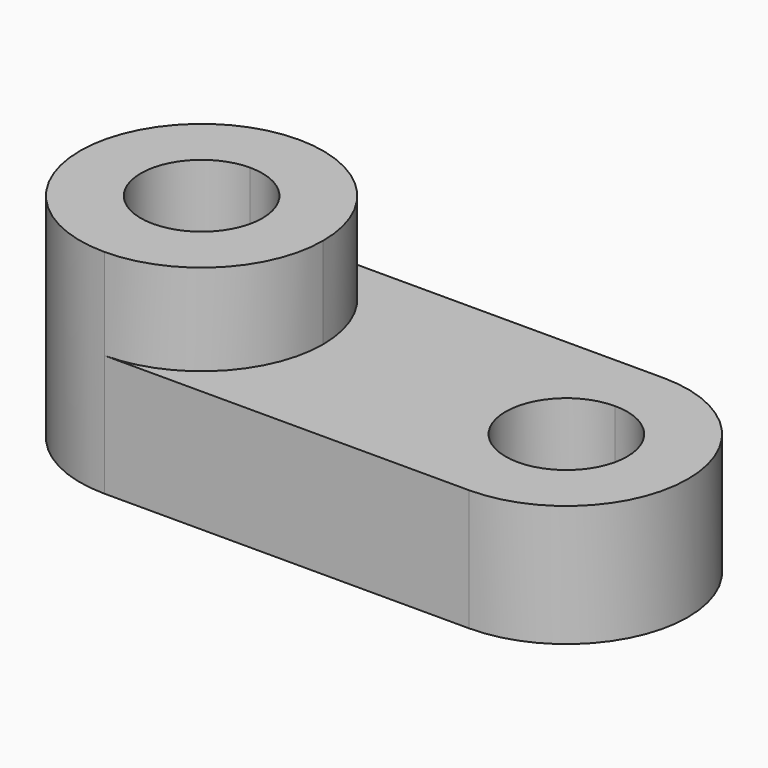
from build123d import *

# Parameters (mm, degrees)
F1_DEPTH = 44.45
F2_DEPTH = 25.4


with BuildPart() as f1:
    # F0 (on Top) → F1 (new body)
    with BuildSketch(Plane.XY):
        with BuildLine():
            Line((-38.1, -12.7), (-38.1, -25.4))
            ThreePointArc((-38.1, -25.4), (-20.139488, -17.960512), (-12.7, 0))
            ThreePointArc((-12.7, 0), (-20.139488, 17.960512), (-38.1, 25.4))
            Line((-38.1, 25.4), (-38.1, 12.7))
            ThreePointArc((-38.1, 12.7), (-29.119744, 8.980256), (-25.4, 0))
            ThreePointArc((-25.4, 0), (-29.119744, -8.980256), (-38.1, -12.7))
        make_face()
        with BuildLine():
            ThreePointArc((-38.1, 25.4), (-63.5, 0), (-38.1, -25.4))
            Line((-38.1, -25.4), (-38.1, -12.7))
            ThreePointArc((-38.1, -12.7), (-50.8, 0), (-38.1, 12.7))
            Line((-38.1, 12.7), (-38.1, 25.4))
        make_face()
    extrude(amount=F1_DEPTH)

    # F0 (on Top) → F2 (join)
    with BuildSketch(Plane.XY):
        with BuildLine():
            ThreePointArc((-12.7, 0), (-20.139488, -17.960512), (-38.1, -25.4))
            Line((-38.1, -25.4), (38.1, -25.4))
            Line((38.1, -25.4), (38.1, -12.7))
            ThreePointArc((38.1, -12.7), (25.4, 0), (38.1, 12.7))
            Line((38.1, 12.7), (38.1, 25.4))
            Line((38.1, 25.4), (-38.1, 25.4))
            ThreePointArc((-38.1, 25.4), (-20.139488, 17.960512), (-12.7, 0))
        make_face()
        with BuildLine():
            ThreePointArc((-38.1, 25.4), (-63.5, 0), (-38.1, -25.4))
            Line((-38.1, -25.4), (-38.1, -12.7))
            ThreePointArc((-38.1, -12.7), (-50.8, 0), (-38.1, 12.7))
            Line((-38.1, 12.7), (-38.1, 25.4))
        make_face()
        with BuildLine():
            Line((38.1, -12.7), (38.1, -25.4))
            ThreePointArc((38.1, -25.4), (63.5, 0), (38.1, 25.4))
            Line((38.1, 25.4), (38.1, 12.7))
            ThreePointArc((38.1, 12.7), (47.080256, 8.980256), (50.8, 0))
            ThreePointArc((50.8, 0), (47.080256, -8.980256), (38.1, -12.7))
        make_face()
    extrude(amount=F2_DEPTH)


solid = f1.part
